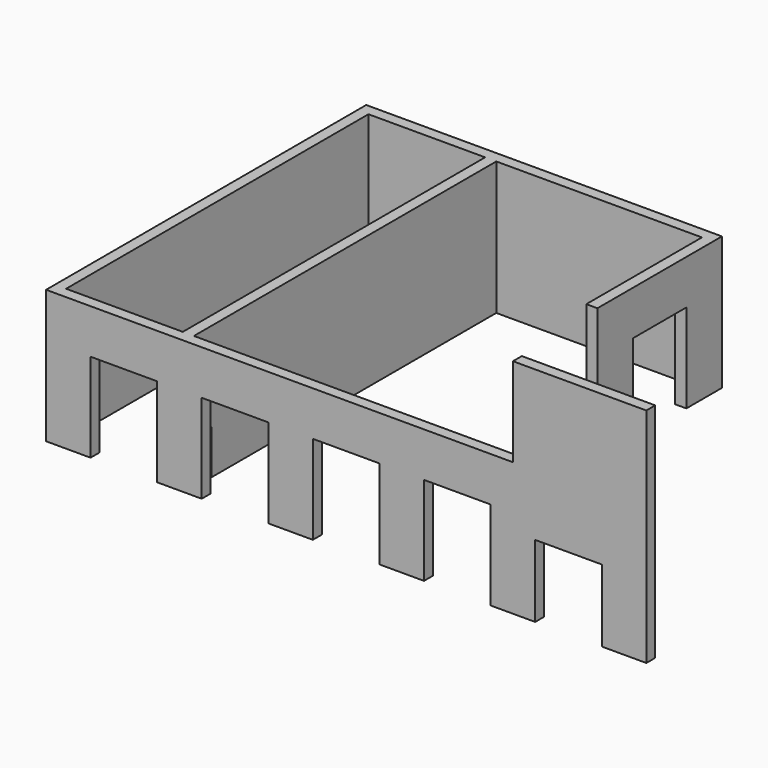
from build123d import *

# Parameters (mm, degrees)
F1_DEPTH  = 6.35
F2_W      = 215.9
F2_H      = 76.2
F3_DEPTH  = 6.35
F4_W      = 196.85
F4_H      = 76.2
F5_DEPTH  = 6.35
F7_DEPTH  = 6.35
F8_W      = 6.35
F8_H      = 215.9
F9_DEPTH  = 76.2
F10_W     = 6.35
F10_H     = 25.4
F11_DEPTH = 12.7


with BuildPart() as f1:
    # F0 (on Front) → F1 (new body)
    with BuildSketch(Plane.XZ):
        Polygon((0, 76.2), (0, 0), (25.4, 0), (25.4, 50.8), (63.5, 50.8), (63.5, 0), (88.9, 0), (88.9, 50.8), (127, 50.8), (127, 0), (152.4, 0), (152.4, 50.8), (190.5, 50.8), (190.5, 0), (215.9, 0), (215.9, 50.8), (254, 50.8), (254, 0), (279.4, 0), (279.4, 41.275), (317.5, 41.275), (317.5, 0), (342.9, 0), (342.9, 127), (266.7, 127), (266.7, 76.2), align=None)
    extrude(amount=F1_DEPTH)

    # F2 (on Right) → F3 (join)
    with BuildSketch(Plane.YZ):
        with Locations((107.95, 38.1)):
            Rectangle(F2_W, F2_H)
    extrude(amount=F3_DEPTH)

    # F4 (on face) → F5 (join)
    with BuildSketch(Plane(origin=(0, 215.9, 0), x_dir=(-1, 0, 0), z_dir=(0, 1, 0))):
        with Locations((-98.425, 38.1)):
            Rectangle(F4_W, F4_H)
    extrude(amount=F5_DEPTH)

    # F6 (on face) → F7 (join)
    with BuildSketch(Plane.YZ.offset(196.85)):
        Polygon((222.25, 0), (222.25, 76.2), (133.35, 76.2), (133.35, 0), (158.75, 0), (158.75, 50.8), (196.85, 50.8), (196.85, 0), align=None)
    extrude(amount=F7_DEPTH)

    # F8 (on face) → F9 (join)
    with BuildSketch(Plane.XY.offset(76.2)):
        with Locations((76.2, 107.95)):
            Rectangle(F8_W, F8_H)
    extrude(amount=-F9_DEPTH)

    # F10 (on face) → F11 (cut)
    with BuildSketch(Plane.YZ.offset(79.375)):
        with Locations((9.525, 12.7)):
            Rectangle(F10_W, F10_H)
    extrude(amount=-F11_DEPTH, mode=Mode.SUBTRACT)


solid = f1.part
